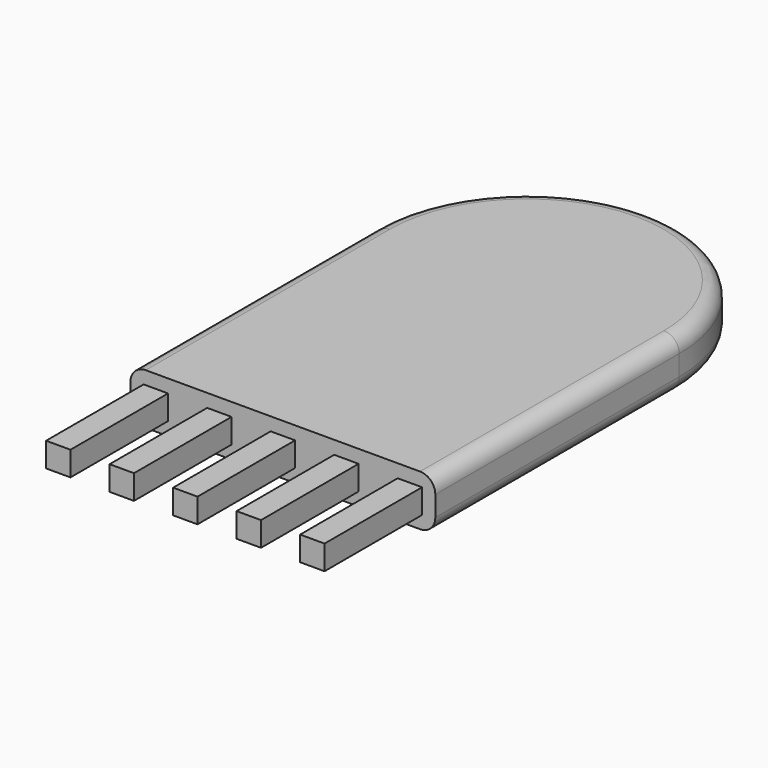
from build123d import *

# Parameters (mm, degrees)
F1_DEPTH = 10
F2_W     = 4.8
F2_H     = 4.8
F3_DEPTH = 24
F4_R     = 3


with BuildPart() as f1:
    # F0 (on Top) → F1 (new body)
    with BuildSketch(Plane.XY):
        with BuildLine():
            Line((-30, 0), (30, 0))
            Line((30, 0), (30, 60))
            ThreePointArc((30, 60), (0, 90), (-30, 60))
            Line((-30, 60), (-30, 0))
        make_face()
    extrude(amount=F1_DEPTH)

    # F2 (on face) → F3 (join)
    with BuildSketch(Plane.XZ):
        with Locations((-25, 5)):
            Rectangle(F2_W, F2_H)
        with Locations((-12.5, 5)):
            Rectangle(F2_W, F2_H)
        with Locations((0, 5)):
            Rectangle(F2_W, F2_H)
        with Locations((12.5, 5)):
            Rectangle(F2_W, F2_H)
        with Locations((25, 5)):
            Rectangle(F2_W, F2_H)
    extrude(amount=F3_DEPTH)

    # F4
    f4_edges = [f1.edges().sort_by_distance(p)[0] for p in [
        (30, 30, 10),
        (30, 30, 0),
    ]]
    fillet(f4_edges, radius=F4_R)


solid = f1.part
